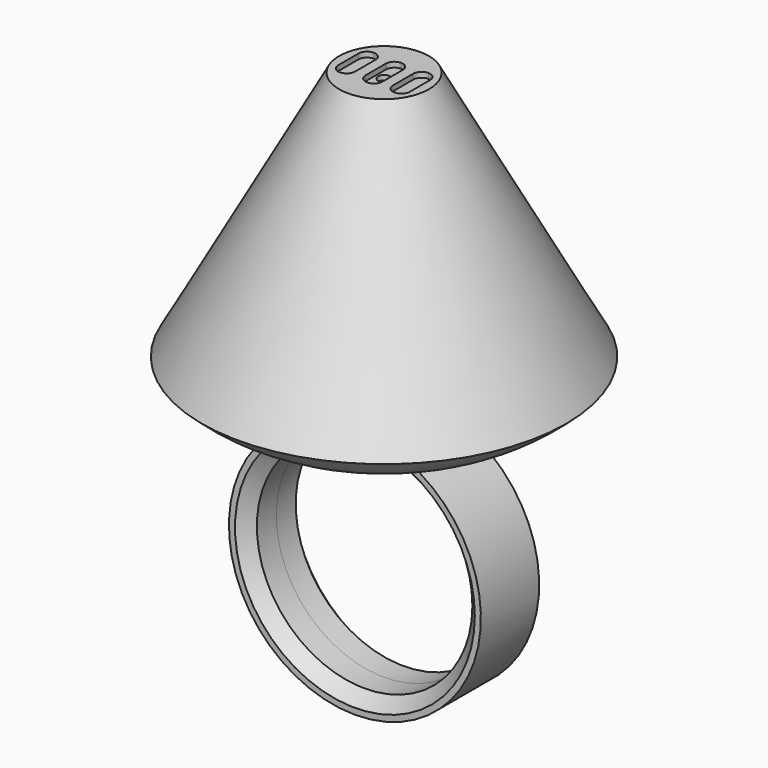
from build123d import *

# Parameters (mm, degrees)
F0_R          = 8.875
F3_DEPTH      = 3
F3_DEPTH_BACK = 3
F4_SIZE       = 1
F5_R          = 0.5
F6_DEPTH      = 0.43
F7_DEPTH      = 0.82


with BuildPart() as f2:
    # F0 (on Front) → F2 (revolve)
    with BuildSketch(Plane.XZ):
        with BuildLine():
            ThreePointArc((0, 10.375), (1.4661242569, 10.2708862647), (2.9028232275, 9.9606346339))
            ThreePointArc((2.9028232275, 9.9606346339), (9.4069705736, 10.9259285589), (15, 14.3833476682))
            Line((15, 14.3833476682), (3.7, 34.9606346339))
            Line((3.7, 34.9606346339), (0, 34.9606346339))
            Line((0, 34.9606346339), (0, 10.375))
        make_face()
    revolve(axis=Axis((0, 0, 0), (0, 0, 1)))

    # F0 (on Front) → F3 (join, two sides)
    with BuildSketch(Plane.XZ) as f3_sk:
        with BuildLine():
            ThreePointArc((0, 10.375), (-7.3362328548, -7.3362328548), (10.375, 0))
            ThreePointArc((10.375, 0), (8.2993197307, 6.2259069225), (2.9028232275, 9.9606346339))
            Line((2.9028232275, 9.9606346339), (0, 9.9606346339))
            Line((0, 9.9606346339), (0, 10.375))
        make_face()
        Circle(F0_R, mode=Mode.SUBTRACT)
        with BuildLine():
            Line((0, 9.9606346339), (2.9028232275, 9.9606346339))
            ThreePointArc((2.9028232275, 9.9606346339), (1.4661242569, 10.2708862647), (0, 10.375))
            Line((0, 10.375), (0, 9.9606346339))
        make_face()
    extrude(amount=F3_DEPTH)
    extrude(f3_sk.sketch, amount=-F3_DEPTH_BACK)

    # F4
    f4_edges = [f2.edges().sort_by_distance(p)[0] for p in [
        (-8.875, -3, 0),
        (-8.875, 3, 0),
    ]]
    chamfer(f4_edges, length=F4_SIZE)

    # F5 (on face) → F6 (cut)
    with BuildSketch(Plane.XY.offset(34.9606346339)):
        with BuildLine():
            ThreePointArc((0.0041443855, 1.7524251654), (-0.4908303614, 1.5473999123), (-0.6958556145, 1.0524251654))
            Line((-0.6958556145, 1.0524251654), (-0.6958556145, -1.0399995122))
            ThreePointArc((-0.6958556145, -1.0399995122), (-0.4908303614, -1.534974259), (0.0041443855, -1.7399995122))
            ThreePointArc((0.0041443855, -1.7399995122), (0.4991191323, -1.534974259), (0.7041443855, -1.0399995122))
            Line((0.7041443855, -1.0399995122), (0.7041443855, 1.0524251654))
            ThreePointArc((0.7041443855, 1.0524251654), (0.4991191323, 1.5473999123), (0.0041443855, 1.7524251654))
        make_face()
        with Locations((0.0021327037, 0.0014704808)):
            Circle(F5_R, mode=Mode.SUBTRACT)
        with BuildLine():
            ThreePointArc((-2.2493049037, 1.7524251654), (-2.7442796505, 1.5473999123), (-2.9493049037, 1.0524251654))
            Line((-2.9493049037, 1.0524251654), (-2.9493049037, -1.0399995122))
            ThreePointArc((-2.9493049037, -1.0399995122), (-2.7442796505, -1.534974259), (-2.2493049037, -1.7399995122))
            ThreePointArc((-2.2493049037, -1.7399995122), (-1.7543301568, -1.534974259), (-1.5493049037, -1.0399995122))
            Line((-1.5493049037, -1.0399995122), (-1.5493049037, 1.0524251654))
            ThreePointArc((-1.5493049037, 1.0524251654), (-1.7543301568, 1.5473999123), (-2.2493049037, 1.7524251654))
        make_face()
        with BuildLine():
            ThreePointArc((2.2571443855, 1.7524251654), (1.7621696386, 1.5473999123), (1.5571443855, 1.0524251654))
            Line((1.5571443855, 1.0524251654), (1.5571443855, -1.0399995122))
            ThreePointArc((1.5571443855, -1.0399995122), (1.7621696386, -1.534974259), (2.2571443855, -1.7399995122))
            ThreePointArc((2.2571443855, -1.7399995122), (2.7521191323, -1.534974259), (2.9571443855, -1.0399995122))
            Line((2.9571443855, -1.0399995122), (2.9571443855, 1.0524251654))
            ThreePointArc((2.9571443855, 1.0524251654), (2.7521191323, 1.5473999123), (2.2571443855, 1.7524251654))
        make_face()
    extrude(amount=-F6_DEPTH, mode=Mode.SUBTRACT)

    # F7 (cut): a face of the model
    f7_faces = [f2.faces().sort_by_distance(p)[0] for p in [
        (0.0021327037, 0.0014704808, 34.9606346339),
    ]]
    extrude(f7_faces, amount=-F7_DEPTH, mode=Mode.SUBTRACT)


solid = f2.part
